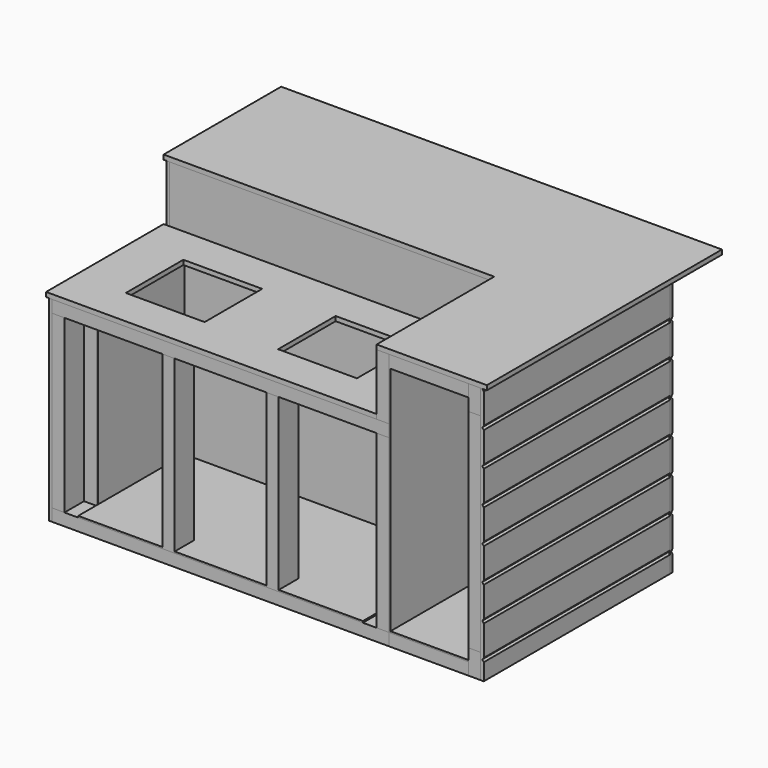
from build123d import *

# Parameters (mm, degrees)
F1_DEPTH  = 19.05
F2_W      = 1778
F2_H      = 101.6
F3_DEPTH  = 50.8
F4_W      = 50.8
F4_H      = 863.6
F4_H_2    = 203.2
F5_DEPTH  = 101.6
F6_W      = 330.2
F6_H      = 101.6
F7_DEPTH  = 50.8
F8_W      = 1397
F8_H      = 50.8
F9_DEPTH  = 254
F10_W     = 50.8
F10_H     = 609.6
F11_DEPTH = 254
F12_W     = 1397
F12_H     = 101.6
F13_DEPTH = 50.8
F14_W     = 101.6
F14_H     = 457.2
F15_DEPTH = 50.8
F16_W     = 1371.6
F16_H     = 609.6
F17_DEPTH = 19.05
F18_W     = 50.8
F18_H     = 101.6
F19_DEPTH = 965.2
F20_W     = 1778
F20_H     = 101.6
F21_DEPTH = 50.8
F22_W     = 50.8
F22_H     = 101.6
F23_DEPTH = 711.2
F24_W     = 101.6
F24_H     = 50.8
F25_DEPTH = 711.2
F26_W     = 1397
F26_H     = 101.6
F27_DEPTH = 50.8
F28_W     = 101.6
F28_H     = 457.2
F29_DEPTH = 50.8
F30_W     = 50.8
F30_H     = 101.6
F31_DEPTH = 203.2
F32_W     = 50.8
F32_H     = 101.6
F33_DEPTH = 863.6
F34_W     = 101.6
F34_H     = 50.8
F35_DEPTH = 330.2
F36_W     = 50.8
F36_H     = 101.6
F37_DEPTH = 863.6
F38_W     = 101.6
F38_H     = 50.8
F39_DEPTH = 203.2
F40_W     = 101.6
F40_H     = 50.8
F41_DEPTH = 330.2
F42_W     = 1803.4
F42_H     = 1066.8
F43_DEPTH = 12.7
F45_DEPTH = 12.7
F46_W     = 965.2
F46_H     = 1066.8
F47_DEPTH = 12.7
F48_W     = 1193.8
F48_H     = 812.8
F49_DEPTH = 6.35
F50_W     = 450.85
F50_H     = 812.8
F51_DEPTH = 6.35
F52_W     = 450.85
F52_H     = 812.8
F53_DEPTH = 6.35
F54_W     = 101.6
F54_H     = 50.8
F55_DEPTH = 203.2
F56_W     = 965.2
F56_H     = 965.2
F57_DEPTH = 6.35
F58_W     = 323.85
F58_H     = 965.2
F59_DEPTH = 6.35
F60_W     = 101.6
F60_H     = 50.8
F61_DEPTH = 203.2
F62_W     = 1181.1
F62_H     = 50.8
F63_DEPTH = 50.8
F65_DEPTH = 6.35
F67_DEPTH = 1803.4
F69_DEPTH = 965.2
F70_W     = 327.025
F70_H     = 298.45
F71_DEPTH = 19.05


with BuildPart() as f1:
    # F0 (on Top) → F1 (new body)
    with BuildSketch(Plane.XY):
        Polygon((-914.4, 609.6), (-914.4, 0), (457.2, 0), (457.2, -609.6), (914.4, -609.6), (914.4, 609.6), align=None)
    extrude(amount=F1_DEPTH)


with BuildPart() as f3:
    # F2 (on face) → F3 (new body)
    with BuildSketch(Plane(origin=(0, 0, 0), x_dir=(1, 0, 0), z_dir=(0, 0, -1))):
        with Locations((0, -304.8)):
            Rectangle(F2_W, F2_H)
    extrude(amount=F3_DEPTH)


with BuildPart() as f5:
    # F4 (on face) → F5 (new body)
    with BuildSketch(Plane(origin=(0, 0, 0), x_dir=(1, 0, 0), z_dir=(0, 0, -1))):
        with Locations((863.6, 177.8)):
            Rectangle(F4_W, F4_H)
        with Locations((-863.6, -152.4)):
            Rectangle(F4_W, F4_H_2)
    extrude(amount=F5_DEPTH)


with BuildPart() as f7:
    # F6 (on face) → F7 (new body)
    with BuildSketch(Plane(origin=(0, 0, 0), x_dir=(1, 0, 0), z_dir=(0, 0, -1))):
        with Locations((673.1, 558.8)):
            Rectangle(F6_W, F6_H)
    extrude(amount=F7_DEPTH)


with BuildPart() as f9:
    # F8 (on face) → F9 (new body)
    with BuildSketch(Plane(origin=(0, 0, 0), x_dir=(1, 0, 0), z_dir=(0, 0, -1))):
        with Locations((-190.5, -25.4)):
            Rectangle(F8_W, F8_H)
    extrude(amount=F9_DEPTH)


with BuildPart() as f11:
    # F10 (on face) → F11 (new body)
    with BuildSketch(Plane(origin=(0, 0, 0), x_dir=(1, 0, 0), z_dir=(0, 0, -1))):
        with Locations((482.6, 304.8)):
            Rectangle(F10_W, F10_H)
    extrude(amount=F11_DEPTH)


with BuildPart() as f13:
    # F12 (on face) → F13 (new body)
    with BuildSketch(Plane(origin=(0, 0, -254), x_dir=(1, 0, 0), z_dir=(0, 0, -1))):
        with Locations((-190.5, 0)):
            Rectangle(F12_W, F12_H)
        with Locations((-190.5, 558.8)):
            Rectangle(F12_W, F12_H)
    extrude(amount=F13_DEPTH)


with BuildPart() as f15:
    # F14 (on face) → F15 (new body)
    with BuildSketch(Plane(origin=(0, 0, -254), x_dir=(1, 0, 0), z_dir=(0, 0, -1))):
        with Locations((-838.2, 279.4)):
            Rectangle(F14_W, F14_H)
        with Locations((457.2, 279.4)):
            Rectangle(F14_W, F14_H)
    extrude(amount=F15_DEPTH)


with BuildPart() as f17:
    # F16 (on face) → F17 (new body)
    with BuildSketch(Plane.XY.offset(-254)):
        with Locations((-228.6, -304.8)):
            Rectangle(F16_W, F16_H)
    extrude(amount=F17_DEPTH)

    # F70 (on face) → F71 (cut, through all)
    with BuildSketch(Plane.XY.offset(-234.95)):
        with Locations((87.3125, -304.8)):
            Rectangle(F70_W, F70_H)
        with Locations((-544.5125, -304.8)):
            Rectangle(F70_W, F70_H)
    extrude(amount=-F71_DEPTH, mode=Mode.SUBTRACT)


with BuildPart() as f19:
    # F18 (on face) → F19 (new body)
    with BuildSketch(Plane(origin=(0, 0, -50.8), x_dir=(1, 0, 0), z_dir=(0, 0, -1))):
        with Locations((-863.6, -304.8)):
            Rectangle(F18_W, F18_H)
        with Locations((863.6, -304.8)):
            Rectangle(F18_W, F18_H)
        with Locations((-431.8, -304.8)):
            Rectangle(F18_W, F18_H)
        with Locations((431.8, -304.8)):
            Rectangle(F18_W, F18_H)
        with Locations((0, -304.8)):
            Rectangle(F18_W, F18_H)
    extrude(amount=F19_DEPTH)


with BuildPart() as f21:
    # F20 (on face) → F21 (new body)
    with BuildSketch(Plane(origin=(0, 0, -1016), x_dir=(1, 0, 0), z_dir=(0, 0, -1))):
        with Locations((0, -304.8)):
            Rectangle(F20_W, F20_H)
    extrude(amount=F21_DEPTH)


with BuildPart() as f23:
    # F22 (on face) → F23 (new body)
    with BuildSketch(Plane(origin=(0, 0, -304.8), x_dir=(1, 0, 0), z_dir=(0, 0, -1))):
        with Locations((-863.6, 0)):
            Rectangle(F22_W, F22_H)
        with Locations((482.6, 0)):
            Rectangle(F22_W, F22_H)
        with Locations((-406.4, 0)):
            Rectangle(F22_W, F22_H)
        with Locations((25.4, 0)):
            Rectangle(F22_W, F22_H)
        with Locations((-863.6, 558.8)):
            Rectangle(F22_W, F22_H)
        with Locations((-406.4, 558.8)):
            Rectangle(F22_W, F22_H)
        with Locations((25.4, 558.8)):
            Rectangle(F22_W, F22_H)
        with Locations((482.6, 558.8)):
            Rectangle(F22_W, F22_H)
    extrude(amount=F23_DEPTH)


with BuildPart() as f25:
    # F24 (on face) → F25 (new body)
    with BuildSketch(Plane(origin=(0, 0, -304.8), x_dir=(1, 0, 0), z_dir=(0, 0, -1))):
        with Locations((-838.2, 482.6)):
            Rectangle(F24_W, F24_H)
        with Locations((-838.2, 76.2)):
            Rectangle(F24_W, F24_H)
        with Locations((457.2, 76.2)):
            Rectangle(F24_W, F24_H)
        with Locations((457.2, 482.6)):
            Rectangle(F24_W, F24_H)
    extrude(amount=F25_DEPTH)


with BuildPart() as f27:
    # F26 (on face) → F27 (new body)
    with BuildSketch(Plane(origin=(0, 0, -1016), x_dir=(1, 0, 0), z_dir=(0, 0, -1))):
        with Locations((-190.5, 558.8)):
            Rectangle(F26_W, F26_H)
        with Locations((-190.5, 0)):
            Rectangle(F26_W, F26_H)
    extrude(amount=F27_DEPTH)


with BuildPart() as f29:
    # F28 (on face) → F29 (new body)
    with BuildSketch(Plane(origin=(0, 0, -1016), x_dir=(1, 0, 0), z_dir=(0, 0, -1))):
        with Locations((-838.2, 279.4)):
            Rectangle(F28_W, F28_H)
        with Locations((457.2, 279.4)):
            Rectangle(F28_W, F28_H)
    extrude(amount=F29_DEPTH)


with BuildPart() as f31:
    # F30 (on face) → F31 (new body)
    with BuildSketch(Plane.XZ.offset(-254)):
        with Locations((-863.6, -1016)):
            Rectangle(F30_W, F30_H)
    extrude(amount=F31_DEPTH)


with BuildPart() as f33:
    # F32 (on face) → F33 (new body)
    with BuildSketch(Plane.XZ.offset(-254)):
        with Locations((863.6, -1016)):
            Rectangle(F32_W, F32_H)
    extrude(amount=F33_DEPTH)


with BuildPart() as f35:
    # F34 (on face) → F35 (new body)
    with BuildSketch(Plane.YZ.offset(508)):
        with Locations((-558.8, -1041.4)):
            Rectangle(F34_W, F34_H)
    extrude(amount=F35_DEPTH)


with BuildPart() as f37:
    # F36 (on face) → F37 (new body, through all)
    with BuildSketch(Plane(origin=(0, 0, -101.6), x_dir=(1, 0, 0), z_dir=(0, 0, -1))):
        with Locations((863.6, 558.8)):
            Rectangle(F36_W, F36_H)
        with Locations((863.6, -203.2)):
            Rectangle(F36_W, F36_H)
    extrude(amount=F37_DEPTH)


with BuildPart() as f39:
    # F38 (on face) → F39 (new body, through all)
    with BuildSketch(Plane(origin=(0, 50.8, 0), x_dir=(-1, 0, 0), z_dir=(0, 1, 0))):
        with Locations((-457.2, -1041.4)):
            Rectangle(F38_W, F38_H)
    extrude(amount=F39_DEPTH)


with BuildPart() as f41:
    # F40 (on face) → F41 (new body, through all)
    with BuildSketch(Plane.YZ.offset(508)):
        with Locations((-101.6, -1041.4)):
            Rectangle(F40_W, F40_H)
    extrude(amount=F41_DEPTH)


with BuildPart() as f43:
    # F42 (on face) → F43 (new body)
    with BuildSketch(Plane(origin=(0, 355.6, 0), x_dir=(-1, 0, 0), z_dir=(0, 1, 0))):
        with Locations((0, -533.4)):
            Rectangle(F42_W, F42_H)
    extrude(amount=F43_DEPTH)

    # F66 (on face) → F67 (cut, through all)
    with BuildSketch(Plane(origin=(-901.7, 0, 0), x_dir=(0, -1, 0), z_dir=(-1, 0, 0))):
        Polygon((-368.3, -7.874), (-361.95, 0), (-368.3, 0), align=None)
        Polygon((-368.3, -149.1615), (-361.95, -141.2875), (-368.3, -133.4135), align=None)
        Polygon((-368.3, -290.449), (-361.95, -282.575), (-368.3, -274.701), align=None)
        Polygon((-368.3, -431.7365), (-361.95, -423.8625), (-368.3, -415.9885), align=None)
        Polygon((-368.3, -573.024), (-361.95, -565.15), (-368.3, -557.276), align=None)
        Polygon((-368.3, -714.3115), (-361.95, -706.4375), (-368.3, -698.5635), align=None)
        Polygon((-368.3, -855.599), (-361.95, -847.725), (-368.3, -839.851), align=None)
        Polygon((-368.3, -996.8865), (-361.95, -989.0125), (-368.3, -981.1385), align=None)
    extrude(amount=-F67_DEPTH, mode=Mode.SUBTRACT)


with BuildPart() as f45:
    # F44 (on face) → F45 (new body)
    with BuildSketch(Plane(origin=(-889, 0, 0), x_dir=(0, -1, 0), z_dir=(-1, 0, 0))):
        Polygon((609.6, -254), (0, -254), (0, 0), (-355.6, 0), (-355.6, -1066.8), (609.6, -1066.8), align=None)
    extrude(amount=F45_DEPTH)


with BuildPart() as f47:
    # F46 (on face) → F47 (new body)
    with BuildSketch(Plane.YZ.offset(889)):
        with Locations((-127, -533.4)):
            Rectangle(F46_W, F46_H)
    extrude(amount=F47_DEPTH)

    # F68 (on face) → F69 (cut, through all)
    with BuildSketch(Plane.XZ.offset(609.6)):
        Polygon((901.7, 0), (895.35, 0), (901.7, -7.874), align=None)
        Polygon((901.7, -133.4135), (895.35, -141.2875), (901.7, -149.1615), align=None)
        Polygon((895.35, -282.575), (901.7, -290.449), (901.7, -274.701), align=None)
        Polygon((895.35, -423.8625), (901.7, -431.7365), (901.7, -415.9885), align=None)
        Polygon((895.35, -565.15), (901.7, -573.024), (901.7, -557.276), align=None)
        Polygon((895.35, -706.4375), (901.7, -714.3115), (901.7, -698.5635), align=None)
        Polygon((895.35, -847.725), (901.7, -855.599), (901.7, -839.851), align=None)
        Polygon((895.35, -989.0125), (901.7, -996.8865), (901.7, -981.1385), align=None)
    extrude(amount=-F69_DEPTH, mode=Mode.SUBTRACT)


with BuildPart() as f49:
    # F48 (on face) → F49 (new body)
    with BuildSketch(Plane.XZ.offset(50.8)):
        with Locations((-190.5, -660.4)):
            Rectangle(F48_W, F48_H)
    extrude(amount=F49_DEPTH)


with BuildPart() as f51:
    # F50 (on face) → F51 (new body)
    with BuildSketch(Plane(origin=(406.4, 0, 0), x_dir=(0, -1, 0), z_dir=(-1, 0, 0))):
        with Locations((282.575, -660.4)):
            Rectangle(F50_W, F50_H)
    extrude(amount=F51_DEPTH)


with BuildPart() as f53:
    # F52 (on face) → F53 (new body)
    with BuildSketch(Plane.YZ.offset(-787.4)):
        with Locations((-282.575, -660.4)):
            Rectangle(F52_W, F52_H)
    extrude(amount=F53_DEPTH)


with BuildPart() as f55:
    # F54 (on face) → F55 (new body, through all)
    with BuildSketch(Plane.XZ.offset(-254)):
        with Locations((-406.4, -1041.4)):
            Rectangle(F54_W, F54_H)
    extrude(amount=F55_DEPTH)


with BuildPart() as f57:
    # F56 (on face) → F57 (new body)
    with BuildSketch(Plane.YZ.offset(508)):
        with Locations((-127, -533.4)):
            Rectangle(F56_W, F56_H)
    extrude(amount=F57_DEPTH)


with BuildPart() as f59:
    # F58 (on face) → F59 (new body)
    with BuildSketch(Plane.XY.offset(-1016)):
        with Locations((676.275, -127)):
            Rectangle(F58_W, F58_H)
    extrude(amount=F59_DEPTH)


with BuildPart() as f61:
    # F60 (on face) → F61 (new body, through all)
    with BuildSketch(Plane.XZ.offset(-254)):
        with Locations((25.4, -1041.4)):
            Rectangle(F60_W, F60_H)
    extrude(amount=F61_DEPTH)


with BuildPart() as f63:
    # F62 (on face) → F63 (new body)
    with BuildSketch(Plane.XZ.offset(57.15)):
        with Locations((-190.5, -1041.4)):
            Rectangle(F62_W, F62_H)
    extrude(amount=F63_DEPTH)


with BuildPart() as f65:
    # F64 (on face) → F65 (new body)
    with BuildSketch(Plane.XY.offset(-1016)):
        Polygon((-431.8, -609.6), (-431.8, -508), (-381, -508), (-381, -609.6), (0, -609.6), (0, -508), (50.8, -508), (50.8, -609.6), (400.05, -609.6), (400.05, -57.15), (-781.05, -57.15), (-781.05, -609.6), align=None)
    extrude(amount=F65_DEPTH)


solid = Compound([f1.part, f3.part, f5.part, f7.part, f9.part, f11.part, f13.part, f15.part, f17.part, f19.part, f21.part, f23.part, f25.part, f27.part, f29.part, f31.part, f33.part, f35.part, f37.part, f39.part, f41.part, f43.part, f45.part, f47.part, f49.part, f51.part, f53.part, f55.part, f57.part, f59.part, f61.part, f63.part, f65.part])
